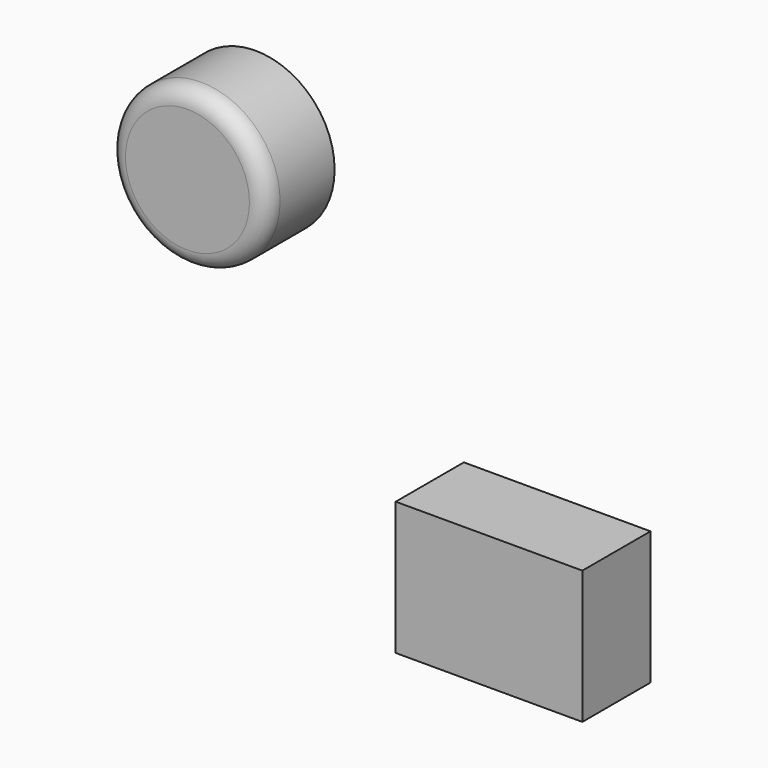
from build123d import *

# Parameters (mm, degrees)
F0_R     = 23.560973
F0_W     = 55.671296
F0_H     = 39.725246
F1_DEPTH = 25.4
F2_R     = 5.08


with BuildPart() as f1:
    # F0 (on Front) → F1 (new body)
    with BuildSketch(Plane.XZ):
        with Locations((-49.376801, 47.698271)):
            Circle(F0_R)
        with Locations((40.564511, -36.50806)):
            Rectangle(F0_W, F0_H)
    extrude(amount=F1_DEPTH)

    # F2
    f2_edges = [f1.edges().sort_by_distance(p)[0] for p in [
        (-72.937774, -25.4, 47.698271),
    ]]
    fillet(f2_edges, radius=F2_R)


solid = f1.part
